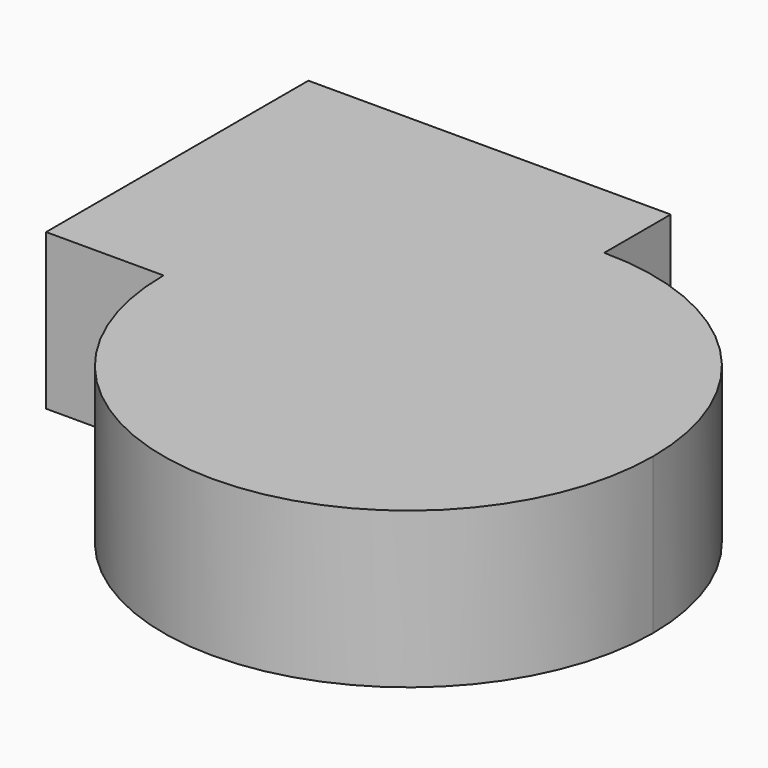
from build123d import *

# Parameters (mm, degrees)
F1_DEPTH = 25
F2_DEPTH = 25


with BuildPart() as f1:
    # F0 (on Top) → F1 (new body)
    with BuildSketch(Plane.XY):
        with BuildLine():
            ThreePointArc((-39.348634, 0), (-27.823686, 27.823686), (0, 39.348634))
            Line((0, 39.348634), (0, 52.689109))
            Line((0, 52.689109), (-58.225289, 52.689109))
            Line((-58.225289, 52.689109), (-58.225289, 0))
            Line((-58.225289, 0), (-39.348634, 0))
        make_face()
    extrude(amount=F1_DEPTH)

    # F0 (on Top) → F2 (join)
    with BuildSketch(Plane.XY):
        with BuildLine():
            ThreePointArc((-39.348634, 0), (0, -39.348634), (39.348634, 0))
            ThreePointArc((39.348634, 0), (27.823686, 27.823686), (0, 39.348634))
            Line((0, 39.348634), (0, 0))
            Line((0, 0), (-39.348634, 0))
        make_face()
        with BuildLine():
            Line((0, 0), (0, 39.348634))
            ThreePointArc((0, 39.348634), (-27.823686, 27.823686), (-39.348634, 0))
            Line((-39.348634, 0), (0, 0))
        make_face()
    extrude(amount=F2_DEPTH)


solid = f1.part
